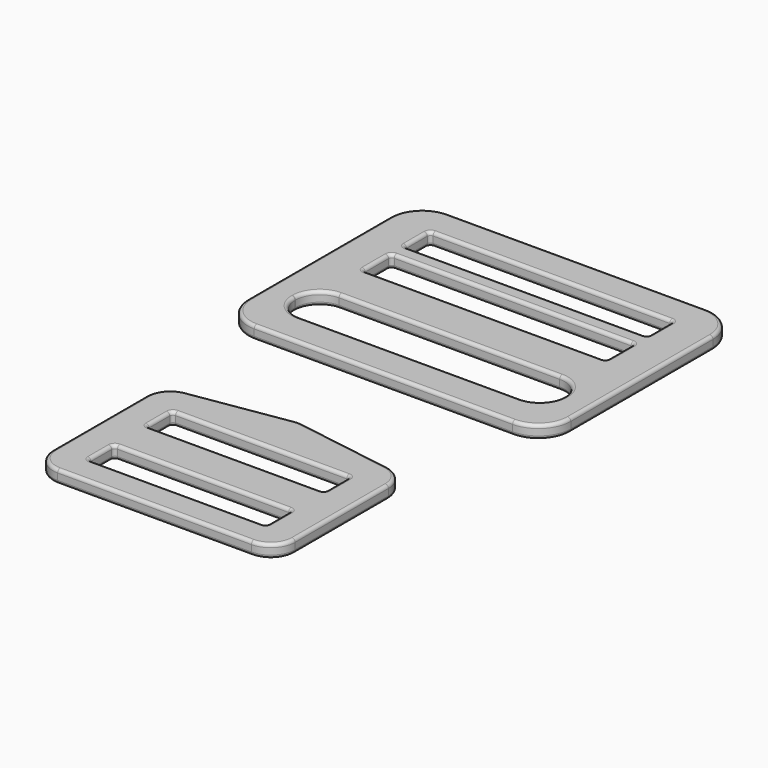
from build123d import *

# Parameters (mm, degrees)
F1_DEPTH = 2.032
F3_DEPTH = 25.4
F4_R     = 0.508
F6_DEPTH = 2.032
F8_DEPTH = 14.9606
F9_R     = 0.508


with BuildPart() as f1:
    # F0 (on Top) → F1 (new body)
    with BuildSketch(Plane.XY):
        with BuildLine():
            ThreePointArc((-19.05, -8.89), (-17.934077, -11.584077), (-15.24, -12.7))
            Line((-15.24, -12.7), (15.24, -12.7))
            ThreePointArc((15.24, -12.7), (17.934077, -11.584077), (19.05, -8.89))
            Line((19.05, -8.89), (19.05, 9.447633))
            ThreePointArc((19.05, 9.447633), (18.137778, 11.921291), (15.837935, 13.210421))
            Line((15.837935, 13.210421), (0.597935, 15.632169))
            ThreePointArc((0.597935, 15.632169), (0, 15.67938), (-0.597935, 15.632169))
            Line((-0.597935, 15.632169), (-15.837935, 13.210421))
            ThreePointArc((-15.837935, 13.210421), (-18.137778, 11.921291), (-19.05, 9.447633))
            Line((-19.05, 9.447633), (-19.05, -8.89))
        make_face()
    extrude(amount=F1_DEPTH)

    # F2 (on Top) → F3 (cut)
    with BuildSketch(Plane.XY):
        with BuildLine():
            Line((13.462, 8.255), (-13.462, 8.255))
            ThreePointArc((-13.462, 8.255), (-13.82121, 8.10621), (-13.97, 7.747))
            Line((-13.97, 7.747), (-13.97, 3.683))
            ThreePointArc((-13.97, 3.683), (-13.82121, 3.32379), (-13.462, 3.175))
            Line((-13.462, 3.175), (13.462, 3.175))
            ThreePointArc((13.462, 3.175), (13.82121, 3.32379), (13.97, 3.683))
            Line((13.97, 3.683), (13.97, 7.747))
            ThreePointArc((13.97, 7.747), (13.82121, 8.10621), (13.462, 8.255))
        make_face()
        with BuildLine():
            ThreePointArc((-13.97, -7.747), (-13.82121, -8.10621), (-13.462, -8.255))
            Line((-13.462, -8.255), (13.462, -8.255))
            ThreePointArc((13.462, -8.255), (13.82121, -8.10621), (13.97, -7.747))
            Line((13.97, -7.747), (13.97, -3.683))
            ThreePointArc((13.97, -3.683), (13.82121, -3.32379), (13.462, -3.175))
            Line((13.462, -3.175), (-13.462, -3.175))
            ThreePointArc((-13.462, -3.175), (-13.82121, -3.32379), (-13.97, -3.683))
            Line((-13.97, -3.683), (-13.97, -7.747))
        make_face()
    extrude(amount=F3_DEPTH, mode=Mode.SUBTRACT)

    # F4
    f4_edges = [f1.edges().sort_by_distance(p)[0] for p in [
        (-18.137778, 11.921291, 2.032),
        (-8.217935, 14.421295, 2.032),
        (-19.05, 0.278816, 2.032),
        (0, 15.67938, 2.032),
        (-17.934077, -11.584077, 2.032),
        (8.217935, 14.421295, 2.032),
        (0, -12.7, 2.032),
        (18.137778, 11.921291, 2.032),
        (17.934077, -11.584077, 2.032),
        (19.05, 0.278816, 2.032),
        (-13.97, -5.715, 2.032),
        (-13.82121, -8.10621, 2.032),
        (0, -8.255, 2.032),
        (13.82121, -8.10621, 2.032),
        (13.97, -5.715, 2.032),
        (13.82121, -3.32379, 2.032),
        (0, -3.175, 2.032),
        (-13.82121, -3.32379, 2.032),
        (-13.82121, 8.10621, 2.032),
        (-13.97, 5.715, 2.032),
        (-13.82121, 3.32379, 2.032),
        (0, 3.175, 2.032),
        (13.82121, 3.32379, 2.032),
        (13.97, 5.715, 2.032),
        (13.82121, 8.10621, 2.032),
        (0, 8.255, 2.032),
        (-18.137778, 11.921291, 0),
        (-8.217935, 14.421295, 0),
        (-19.05, 0.278816, 0),
        (0, 15.67938, 0),
        (-17.934077, -11.584077, 0),
        (8.217935, 14.421295, 0),
        (0, -12.7, 0),
        (18.137778, 11.921291, 0),
        (17.934077, -11.584077, 0),
        (19.05, 0.278816, 0),
        (-13.82121, -3.32379, 0),
        (-13.97, -5.715, 0),
        (-13.82121, -8.10621, 0),
        (0, -8.255, 0),
        (13.82121, -8.10621, 0),
        (13.97, -5.715, 0),
        (13.82121, -3.32379, 0),
        (0, -3.175, 0),
        (0, 8.255, 0),
        (-13.82121, 8.10621, 0),
        (-13.97, 5.715, 0),
        (-13.82121, 3.32379, 0),
        (0, 3.175, 0),
        (13.82121, 3.32379, 0),
        (13.97, 5.715, 0),
        (13.82121, 8.10621, 0),
    ]]
    fillet(f4_edges, radius=F4_R)


with BuildPart() as f6:
    # F5 (on Top) → F6 (new body)
    with BuildSketch(Plane.XY):
        with BuildLine():
            ThreePointArc((-25.4, 37.371206), (-23.912102, 33.779104), (-20.32, 32.291206))
            Line((-20.32, 32.291206), (20.32, 32.291206))
            ThreePointArc((20.32, 32.291206), (23.912102, 33.779104), (25.4, 37.371206))
            Line((25.4, 37.371206), (25.4, 65.311206))
            ThreePointArc((25.4, 65.311206), (23.912102, 68.903309), (20.32, 70.391206))
            Line((20.32, 70.391206), (-20.32, 70.391206))
            ThreePointArc((-20.32, 70.391206), (-23.912102, 68.903309), (-25.4, 65.311206))
            Line((-25.4, 65.311206), (-25.4, 37.371206))
        make_face()
    extrude(amount=F6_DEPTH)

    # F7 (on Top) → F8 (cut)
    with BuildSketch(Plane.XY):
        with BuildLine():
            Line((18.617638, 65.321351), (-18.617638, 65.321351))
            ThreePointArc((-18.617638, 65.321351), (-18.976848, 65.172561), (-19.125638, 64.813351))
            Line((-19.125638, 64.813351), (-19.125638, 60.749351))
            ThreePointArc((-19.125638, 60.749351), (-18.976848, 60.390141), (-18.617638, 60.241351))
            Line((-18.617638, 60.241351), (18.617638, 60.241351))
            ThreePointArc((18.617638, 60.241351), (18.976848, 60.390141), (19.125638, 60.749351))
            Line((19.125638, 60.749351), (19.125638, 64.813351))
            ThreePointArc((19.125638, 64.813351), (18.976848, 65.172561), (18.617638, 65.321351))
        make_face()
        with BuildLine():
            Line((18.617638, 57.701351), (-18.617638, 57.701351))
            ThreePointArc((-18.617638, 57.701351), (-18.976848, 57.552561), (-19.125638, 57.193351))
            Line((-19.125638, 57.193351), (-19.125638, 52.621351))
            ThreePointArc((-19.125638, 52.621351), (-18.976848, 52.262141), (-18.617638, 52.113351))
            Line((-18.617638, 52.113351), (18.617638, 52.113351))
            ThreePointArc((18.617638, 52.113351), (18.976848, 52.262141), (19.125638, 52.621351))
            Line((19.125638, 52.621351), (19.125638, 57.193351))
            ThreePointArc((19.125638, 57.193351), (18.976848, 57.552561), (18.617638, 57.701351))
        make_face()
        with BuildLine():
            ThreePointArc((-21.156966, 41.356931), (-20.041043, 38.662854), (-17.346966, 37.546931))
            Line((-17.346966, 37.546931), (17.346966, 37.546931))
            ThreePointArc((17.346966, 37.546931), (20.041043, 38.662854), (21.156966, 41.356931))
            Line((21.156966, 41.356931), (21.156966, 41.447399))
            ThreePointArc((21.156966, 41.447399), (20.041043, 44.141476), (17.346966, 45.257399))
            Line((17.346966, 45.257399), (-17.346966, 45.257399))
            ThreePointArc((-17.346966, 45.257399), (-20.041043, 44.141476), (-21.156966, 41.447399))
            Line((-21.156966, 41.447399), (-21.156966, 41.356931))
        make_face()
    extrude(amount=F8_DEPTH, mode=Mode.SUBTRACT)

    # F9
    f9_edges = [f6.edges().sort_by_distance(p)[0] for p in [
        (-23.912102, 68.903309, 0),
        (0, 70.391206, 0),
        (-25.4, 51.341206, 0),
        (23.912102, 68.903309, 0),
        (-23.912102, 33.779104, 0),
        (25.4, 51.341206, 0),
        (0, 32.291206, 0),
        (23.912102, 33.779104, 0),
        (-20.041043, 38.662854, 0),
        (0, 37.546931, 0),
        (20.041043, 38.662854, 0),
        (21.156966, 41.402165, 0),
        (20.041043, 44.141476, 0),
        (0, 45.257399, 0),
        (-20.041043, 44.141476, 0),
        (-21.156966, 41.402165, 0),
        (18.976848, 57.552561, 0),
        (0, 57.701351, 0),
        (-18.976848, 57.552561, 0),
        (-19.125638, 54.907351, 0),
        (-18.976848, 52.262141, 0),
        (0, 52.113351, 0),
        (18.976848, 52.262141, 0),
        (19.125638, 54.907351, 0),
        (18.976848, 65.172561, 0),
        (0, 65.321351, 0),
        (-18.976848, 65.172561, 0),
        (-19.125638, 62.781351, 0),
        (-18.976848, 60.390141, 0),
        (0, 60.241351, 0),
        (18.976848, 60.390141, 0),
        (19.125638, 62.781351, 0),
        (-23.912102, 68.903309, 2.032),
        (0, 70.391206, 2.032),
        (-25.4, 51.341206, 2.032),
        (23.912102, 68.903309, 2.032),
        (-23.912102, 33.779104, 2.032),
        (25.4, 51.341206, 2.032),
        (0, 32.291206, 2.032),
        (23.912102, 33.779104, 2.032),
        (0, 37.546931, 2.032),
        (20.041043, 38.662854, 2.032),
        (21.156966, 41.402165, 2.032),
        (20.041043, 44.141476, 2.032),
        (0, 45.257399, 2.032),
        (-20.041043, 44.141476, 2.032),
        (-21.156966, 41.402165, 2.032),
        (-20.041043, 38.662854, 2.032),
        (0, 57.701351, 2.032),
        (-18.976848, 57.552561, 2.032),
        (-19.125638, 54.907351, 2.032),
        (-18.976848, 52.262141, 2.032),
        (0, 52.113351, 2.032),
        (18.976848, 52.262141, 2.032),
        (19.125638, 54.907351, 2.032),
        (18.976848, 57.552561, 2.032),
        (0, 65.321351, 2.032),
        (-18.976848, 65.172561, 2.032),
        (-19.125638, 62.781351, 2.032),
        (-18.976848, 60.390141, 2.032),
        (0, 60.241351, 2.032),
        (18.976848, 60.390141, 2.032),
        (19.125638, 62.781351, 2.032),
        (18.976848, 65.172561, 2.032),
    ]]
    fillet(f9_edges, radius=F9_R)


solid = Compound([f1.part, f6.part])
